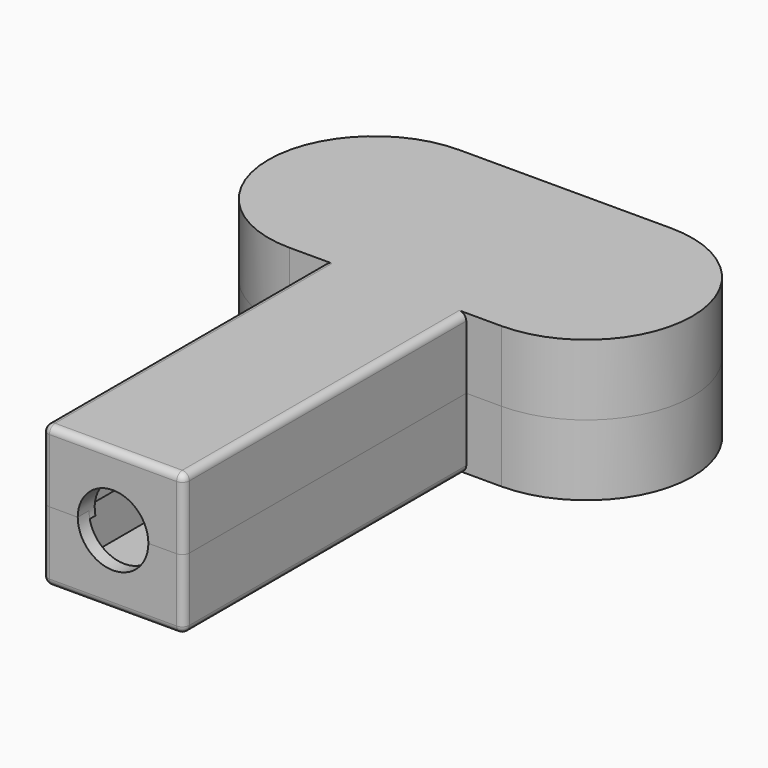
from build123d import *

# Parameters (mm, degrees)
PAD_DEPTH       = 10
PAD002_DEPTH    = 11
POCKET_DEPTH    = 9
SKETCH004_R     = 5
POCKET002_DEPTH = 5
FILLET_R        = 1
FILLET001_R     = 1
PAD001_DEPTH    = 10
POCKET004_DEPTH = 8
POCKET001_DEPTH = 1
SKETCH005_R     = 5
POCKET003_DEPTH = 5
FILLET002_R     = 1
FILLET003_R     = 1


with BuildPart() as bottom:
    # Sketch → Pad (new body)
    with BuildSketch(Plane.XY):
        with BuildLine():
            Line((10, 10), (15, 10))
            ThreePointArc((15, 10), (30, 25), (15, 40))
            Line((15, 40), (-15, 40))
            ThreePointArc((-15, 40), (-30, 25), (-15, 10))
            Line((-15, 10), (-10, 10))
            Line((-10, 10), (-10, -40))
            Line((-10, -40), (10, -40))
            Line((10, -40), (10, 10))
        make_face()
    extrude(amount=PAD_DEPTH)

    # Sketch006 → Pad002 (join)
    with BuildSketch(Plane.XY.offset(10)):
        with BuildLine():
            Line((8, 12), (15, 12))
            ThreePointArc((15, 12), (28, 25), (15, 38))
            Line((15, 38), (-15, 38))
            ThreePointArc((-15, 38), (-28, 25), (-15, 12))
            Line((-15, 12), (-8, 12))
            Line((-8, 12), (-8, -38))
            Line((-8, -38), (8, -38))
            Line((8, -38), (8, 12))
        make_face()
    extrude(amount=-PAD002_DEPTH)

    # Sketch001 → Pocket (cut)
    with BuildSketch(Plane.XY.offset(-1)):
        with BuildLine():
            Line((7, 13), (15, 13))
            ThreePointArc((15, 13), (27, 25), (15, 37))
            Line((15, 37), (-15, 37))
            ThreePointArc((-15, 37), (-27, 25), (-15, 13))
            Line((-15, 13), (-7, 13))
            Line((-7, 13), (-7, -37))
            Line((-7, -37), (7, -37))
            Line((7, -37), (7, 13))
        make_face()
    extrude(amount=POCKET_DEPTH, mode=Mode.SUBTRACT)

    # Sketch004 → Pocket002 (cut)
    with BuildSketch(Plane.XZ.offset(40)):
        Circle(SKETCH004_R)
    extrude(amount=-POCKET002_DEPTH, mode=Mode.SUBTRACT)

    # Fillet
    fillet_edges = [bottom.edges().sort_by_distance(p)[0] for p in [
        (-7, 13, 3.5),
        (7, 13, 3.5),
    ]]
    fillet(fillet_edges, radius=FILLET_R)

    # Fillet001
    fillet001_edges = [bottom.edges().sort_by_distance(p)[0] for p in [
        (10, -15, 10),
        (-10, -15, 10),
        (0, -40, 10),
        (10, -40, 5),
        (-10, -40, 5),
    ]]
    fillet(fillet001_edges, radius=FILLET001_R)


with BuildPart() as top:
    # Sketch003 → Pad001 (new body)
    with BuildSketch(Plane.XY.offset(-10)):
        with BuildLine():
            Line((10, 10), (15, 10))
            ThreePointArc((15, 10), (30, 25), (15, 40))
            Line((15, 40), (-15, 40))
            ThreePointArc((-15, 40), (-30, 25), (-15, 10))
            Line((-15, 10), (-10, 10))
            Line((-10, 10), (-10, -40))
            Line((-10, -40), (10, -40))
            Line((10, -40), (10, 10))
        make_face()
    extrude(amount=PAD001_DEPTH)

    # Sketch007 → Pocket004 (cut)
    with BuildSketch(Plane.XY):
        with BuildLine():
            Line((8, 12), (15, 12))
            ThreePointArc((15, 12), (28, 25), (15, 38))
            Line((15, 38), (-15, 38))
            ThreePointArc((-15, 38), (-28, 25), (-15, 12))
            Line((-15, 12), (-8, 12))
            Line((-8, 12), (-8, -38))
            Line((-8, -38), (8, -38))
            Line((8, -38), (8, 12))
        make_face()
    extrude(amount=-POCKET004_DEPTH, mode=Mode.SUBTRACT)

    # Sketch002 → Pocket001 (cut)
    with BuildSketch(Plane.XY):
        with BuildLine():
            Line((7, 13), (15, 13))
            ThreePointArc((15, 13), (27, 25), (15, 37))
            Line((15, 37), (-15, 37))
            ThreePointArc((-15, 37), (-27, 25), (-15, 13))
            Line((-15, 13), (-7, 13))
            Line((-7, 13), (-7, -37))
            Line((-7, -37), (7, -37))
            Line((7, -37), (7, 13))
        make_face()
    extrude(amount=-POCKET001_DEPTH, mode=Mode.SUBTRACT)

    # Sketch005 → Pocket003 (cut)
    with BuildSketch(Plane.XZ.offset(40)):
        Circle(SKETCH005_R)
    extrude(amount=-POCKET003_DEPTH, mode=Mode.SUBTRACT)

    # Fillet002
    fillet002_edges = [top.edges().sort_by_distance(p)[0] for p in [
        (-8, 12, -4),
        (8, 12, -4),
    ]]
    fillet(fillet002_edges, radius=FILLET002_R)

    # Fillet003
    fillet003_edges = [top.edges().sort_by_distance(p)[0] for p in [
        (10, -40, -5),
        (0, -40, -10),
        (-10, -15, -10),
        (-10, -40, -5),
        (10, -15, -10),
    ]]
    fillet(fillet003_edges, radius=FILLET003_R)


solid = Compound([bottom.part, top.part])
